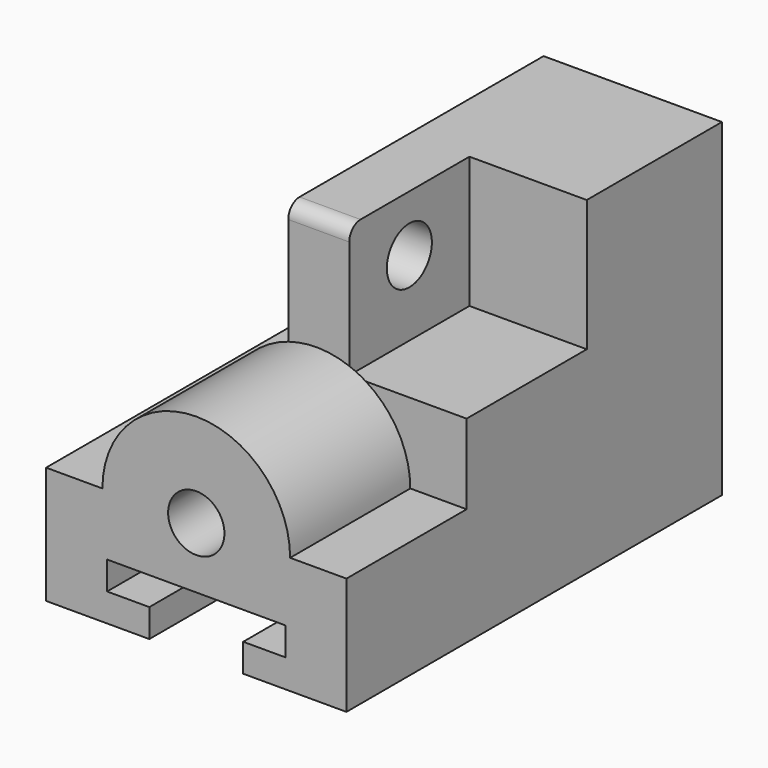
from build123d import *

# Parameters (mm, degrees)
F1_DEPTH  = 50
F3_DEPTH  = 25
F4_W      = 68
F4_H      = 45
F4_R      = 6
F5_DEPTH  = 13
F6_R      = 3
F8_DEPTH  = 32
F9_R      = 6
F10_DEPTH = 25


with BuildPart() as f1:
    # F0 (on Front) → F1 (new body, symmetric)
    with BuildSketch(Plane.XZ):
        Polygon((-32, 25), (-32, 0), (-10, 0), (-10, 6), (-19, 6), (-19, 12), (19, 12), (19, 6), (10, 6), (10, 0), (32, 0), (32, 25), align=None)
    extrude(amount=F1_DEPTH, both=True)

    # F2 (on face) → F3 (join)
    with BuildSketch(Plane.YZ.offset(32)):
        Polygon((50, 0), (50, 25), (50, 70), (14, 70), (14, 42), (-18, 42), (-18, 25), (-18, 0), align=None)
    extrude(amount=-F3_DEPTH)

    # F4 (on face) → F5 (join)
    with BuildSketch(Plane(origin=(7, 0, 0), x_dir=(0, -1, 0), z_dir=(-1, 0, 0))):
        with Locations((-16, 47.5)):
            Rectangle(F4_W, F4_H)
        with Locations((2, 58)):
            Circle(F4_R, mode=Mode.SUBTRACT)
    extrude(amount=F5_DEPTH)

    # F6
    f6_edges = [f1.edges().sort_by_distance(p)[0] for p in [
        (0.5, -18, 70),
    ]]
    fillet(f6_edges, radius=F6_R)

    # F7 (on face) → F8 (join)
    with BuildSketch(Plane.XZ.offset(50)):
        with BuildLine():
            Line((6, 25), (20, 25))
            ThreePointArc((20, 25), (0, 45), (-20, 25))
            Line((-20, 25), (-6, 25))
            ThreePointArc((-6, 25), (0, 31), (6, 25))
        make_face()
        with BuildLine():
            Line((-6, 25), (6, 25))
            ThreePointArc((6, 25), (0, 31), (-6, 25))
        make_face()
        with BuildLine():
            ThreePointArc((-6, 25), (0, 19), (6, 25))
            Line((6, 25), (-6, 25))
        make_face()
    extrude(amount=-F8_DEPTH)

    # F9 (on face) → F10 (cut)
    with BuildSketch(Plane.XZ.offset(50)):
        with Locations((0, 25)):
            Circle(F9_R)
    extrude(amount=-F10_DEPTH, mode=Mode.SUBTRACT)


solid = f1.part
